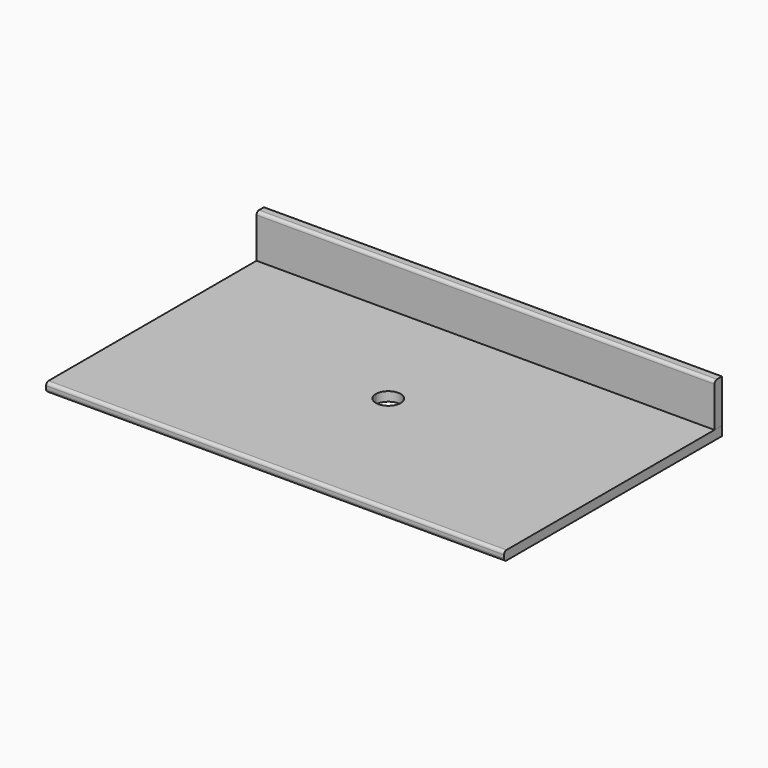
from build123d import *

# Parameters (mm, degrees)
F0_W     = 939.8
F0_H     = 19.05
F1_DEPTH = 88.9
F2_DEPTH = 19.05
F3_R     = 6.35
F3_2_R   = 6.35


with BuildPart() as f1:
    # F0 (on Top) → F1 (new body)
    with BuildSketch(Plane.XY):
        with Locations((1.493961, 342.749269)):
            Rectangle(F0_W, F0_H)
    extrude(amount=F1_DEPTH)

    # F3
    f3_edges = [f1.edges().sort_by_distance(p)[0] for p in [
        (1.493961, 333.224269, 88.9),
    ]]
    fillet(f3_edges, radius=F3_R)


with BuildPart() as f2:
    # F0 (on Top) → F2 (new body)
    with BuildSketch(Plane.XY):
        with Locations((1.493961, 342.749269)):
            Rectangle(F0_W, F0_H)
        with BuildLine():
            Line((471.393961, 333.224269), (-468.406039, 333.224269))
            Line((-468.406039, 333.224269), (-468.406039, 91.924269))
            Line((-468.406039, 91.924269), (-30.256039, 91.924269))
            ThreePointArc((-30.256039, 91.924269), (-4.856039, 117.324269), (20.543961, 91.924269))
            ThreePointArc((20.543961, 91.924269), (13.104473, 73.963757), (-4.856039, 66.524269))
            Line((-4.856039, 66.524269), (-4.856039, -206.525731))
            Line((-4.856039, -206.525731), (471.393961, -206.525731))
            Line((471.393961, -206.525731), (471.393961, 333.224269))
        make_face()
        with BuildLine():
            Line((-30.256039, 91.924269), (-468.406039, 91.924269))
            Line((-468.406039, 91.924269), (-468.406039, -206.525731))
            Line((-468.406039, -206.525731), (-4.856039, -206.525731))
            Line((-4.856039, -206.525731), (-4.856039, 66.524269))
            ThreePointArc((-4.856039, 66.524269), (-22.816552, 73.963757), (-30.256039, 91.924269))
        make_face()
    extrude(amount=-F2_DEPTH)

    # F3#2
    f3_2_edges = [f2.edges().sort_by_distance(p)[0] for p in [
        (1.493961, -206.525731, 0),
        (1.493961, -206.525731, -19.05),
    ]]
    fillet(f3_2_edges, radius=F3_2_R)


solid = Compound([f1.part, f2.part])
